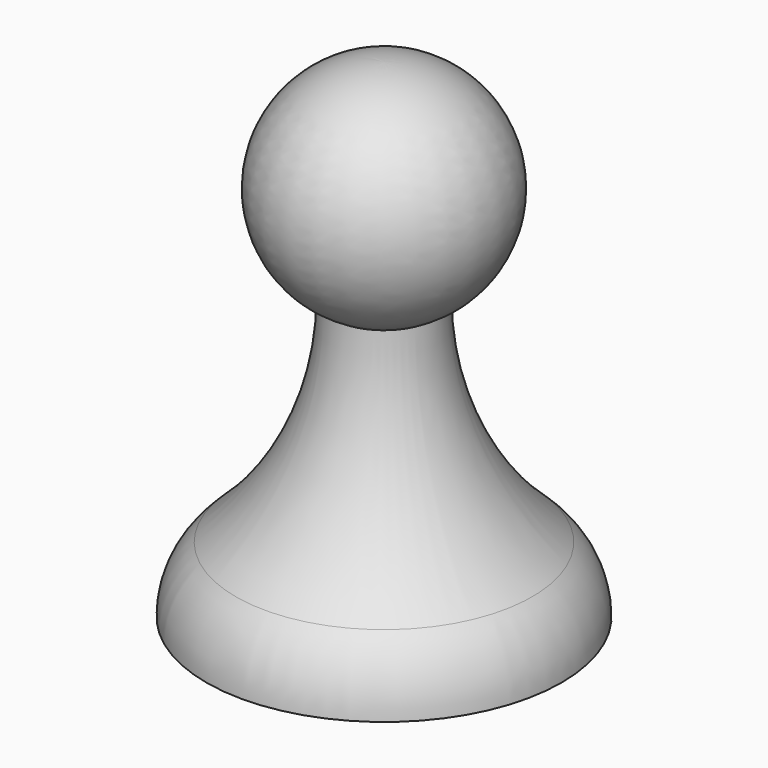
from build123d import *


with BuildPart() as f1:
    # F0 (on Front) → F1 (revolve)
    with BuildSketch(Plane.XZ):
        with BuildLine():
            Line((0, 15.24), (0, 27.94))
            ThreePointArc((0, 27.94), (-6.155362, 23.150133), (-3.024626, 16.006619))
            ThreePointArc((-3.024626, 16.006619), (-1.560133, 15.434638), (0, 15.24))
        make_face()
        with BuildLine():
            ThreePointArc((0, 15.24), (-1.560133, 15.434638), (-3.024626, 16.006619))
            ThreePointArc((-3.024626, 16.006619), (-4.449628, 9.310037), (-8.477709, 3.773845))
            ThreePointArc((-8.477709, 3.773845), (-9.720383, 2.065915), (-10.16, 0))
            Line((-10.16, 0), (0, 0))
            Line((0, 0), (0, 15.24))
        make_face()
    revolve(axis=Axis((0, 0, 13.97), (0, 0, -1)))


solid = f1.part
